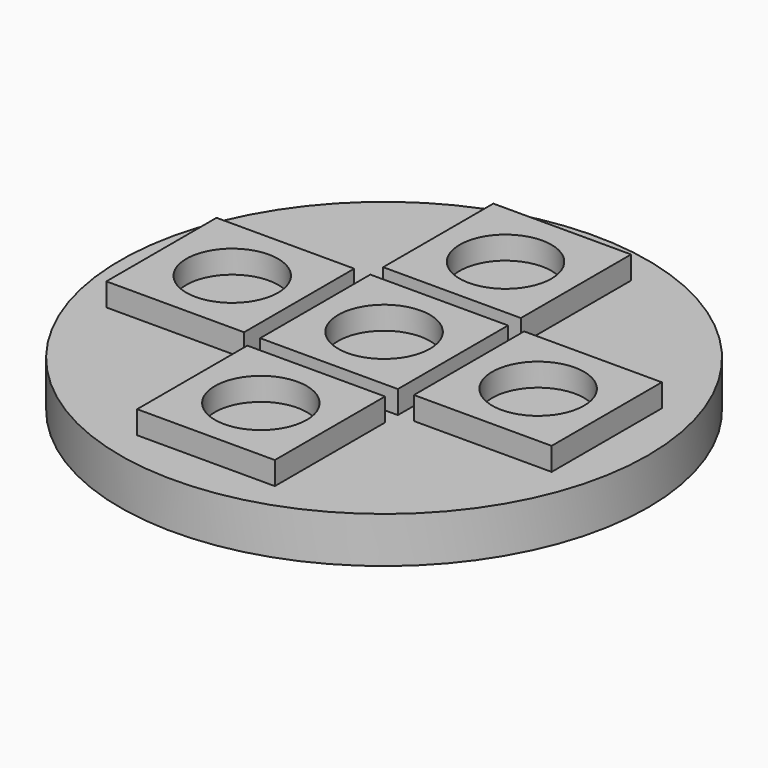
from build123d import *

# Parameters (mm, degrees)
CYLINDER_R      = 11.5
CYLINDER_DEPTH  = 2
SKETCH002_W     = 6
SKETCH002_H     = 6
PAD001_DEPTH    = 1
SKETCH003_R     = 2
POCKET001_DEPTH = 1
SKETCH004_W     = 6
SKETCH004_H     = 6
PAD002_DEPTH    = 1
SKETCH005_R     = 2
POCKET002_DEPTH = 1


with BuildPart() as part:
    # Cylinder → Cylinder (new body)
    with BuildSketch(Plane.XY):
        Circle(CYLINDER_R)
    extrude(amount=CYLINDER_DEPTH)

    # Sketch002 → Pad001 (new body)
    with BuildSketch(Plane.XY.offset(2)):
        Rectangle(SKETCH002_W, SKETCH002_H)
    extrude(amount=PAD001_DEPTH)

    # Sketch003 → Pocket001 (cut)
    with BuildSketch(Plane.XY.offset(3)):
        Circle(SKETCH003_R)
    extrude(amount=-POCKET001_DEPTH, mode=Mode.SUBTRACT)

    # Sketch004 → Pad002 (new body)
    with BuildSketch(Plane.XY.offset(2)):
        with Locations((0, 6.7)):
            Rectangle(SKETCH004_W, SKETCH004_H)
        with Locations((-6.7, 0)):
            Rectangle(SKETCH004_W, SKETCH004_H)
        with Locations((0, -6.7)):
            Rectangle(SKETCH004_W, SKETCH004_H)
        with Locations((6.7, 0)):
            Rectangle(SKETCH004_W, SKETCH004_H)
    extrude(amount=PAD002_DEPTH)

    # Sketch005 → Pocket002 (cut)
    with BuildSketch(Plane.XY.offset(3)):
        with Locations((0, 6.615592)):
            Circle(SKETCH005_R)
        with Locations((-6.615583, 0)):
            Circle(SKETCH005_R)
        with Locations((6.712149, 0)):
            Circle(SKETCH005_R)
        with Locations((0, -6.712142)):
            Circle(SKETCH005_R)
    extrude(amount=-POCKET002_DEPTH, mode=Mode.SUBTRACT)


solid = part.part
